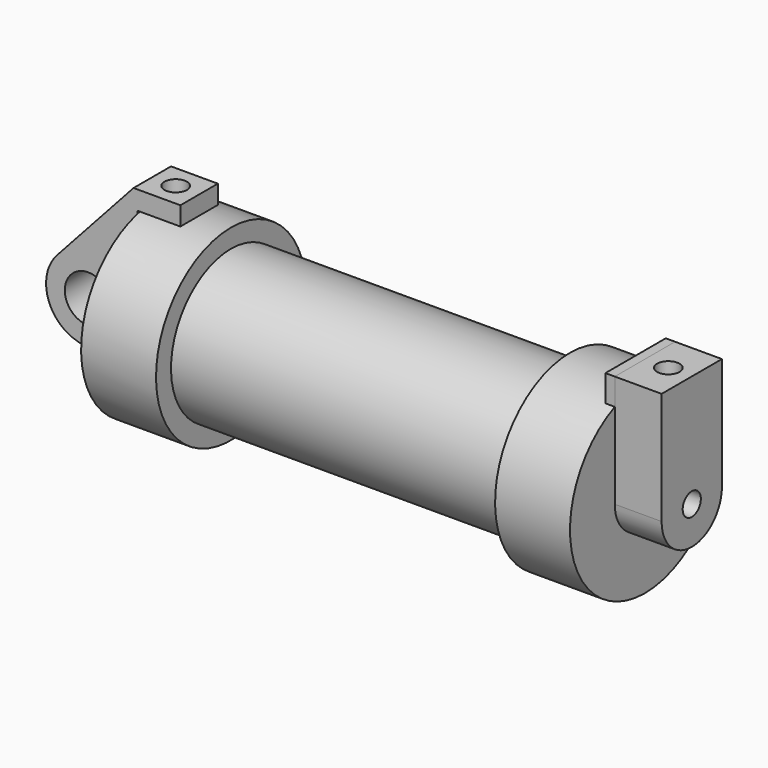
from build123d import *

# Parameters (mm, degrees)
F0_W      = 5.842
F0_H      = 12.7
F0_R      = 3.175
F2_DEPTH  = 3.175
F3_R      = 1.5393438835
F4_DEPTH  = 6.35
F5_DEPTH  = 1.27
F6_R      = 1.524
F9_DEPTH  = 17.78
F7_R      = 1.524
F10_DEPTH = 10.414


with BuildPart() as f1:
    # F0 (on Front) → F1 (revolve)
    with BuildSketch(Plane.XZ):
        with Locations((2.921, 6.35)):
            Rectangle(F0_W, F0_H)
        Polygon((5.842, 12.7), (5.842, 0), (66.294, 0), (66.294, 12.7), (56.134, 12.7), (56.134, 10.16), (10.16, 10.16), (10.16, 12.7), align=None)
    revolve(axis=Axis((33.147, 0, 0), (-1, 0, 0)))

    # F3 (on face) → F4 (join)
    with BuildSketch(Plane.YZ.offset(66.294)):
        with BuildLine():
            ThreePointArc((-5.1108804903, 0), (0, -5.1108804903), (5.1108804903, 0))
            ThreePointArc((5.1108804903, 0), (0, 5.1108804903), (-5.1108804903, 0))
        make_face()
        Circle(F3_R, mode=Mode.SUBTRACT)
        with BuildLine():
            ThreePointArc((-5.1108804903, 0), (0, 5.1108804903), (5.1108804903, 0))
            Line((5.1108804903, 0), (5.1108804903, 11.6262160918))
            ThreePointArc((5.1108804903, 11.6262160918), (0, 12.7), (-5.1108804903, 11.6262160918))
            Line((-5.1108804903, 11.6262160918), (-5.1108804903, 0))
        make_face()
        with BuildLine():
            ThreePointArc((-5.1108804903, 11.6262160918), (0, 12.7), (5.1108804903, 11.6262160918))
            Line((5.1108804903, 11.6262160918), (5.1108804903, 15.24))
            Line((5.1108804903, 15.24), (-5.1108804903, 15.24))
            Line((-5.1108804903, 15.24), (-5.1108804903, 11.6262160918))
        make_face()
    extrude(amount=F4_DEPTH)


with BuildPart() as f2:
    # F0 (on Front) → F2 (new body, symmetric)
    with BuildSketch(Plane.XZ):
        with BuildLine():
            ThreePointArc((-8.1826630726, -5.5069827884), (-3.1957909266, -4.5493385486), (-0.9398, 0))
            ThreePointArc((-0.9398, 0), (-4.5919612295, 5.3297205562), (-10.8806298187, 3.8475430269))
            ThreePointArc((-10.8806298187, 3.8475430269), (-12.1459778134, -1.5837270034), (-8.1826630726, -5.5069827884))
        make_face()
        with Locations((-6.6548, 0)):
            Circle(F0_R, mode=Mode.SUBTRACT)
        with BuildLine():
            Line((5.842, 0), (0, 0))
            Line((0, 0), (-0.9398, 0))
            ThreePointArc((-0.9398, 0), (-3.1957909266, -4.5493385486), (-8.1826630726, -5.5069827884))
            Line((-8.1826630726, -5.5069827884), (5.842, -9.398))
            Line((5.842, -9.398), (5.842, 0))
        make_face()
        with BuildLine():
            Line((-0.9398, 0), (0, 0))
            Line((0, 0), (0, 12.7))
            Line((0, 12.7), (5.842, 12.7))
            Line((5.842, 12.7), (5.842, 15.24))
            Line((5.842, 15.24), (-0.508, 15.24))
            Line((-0.508, 15.24), (-10.8806298187, 3.8475430269))
            ThreePointArc((-10.8806298187, 3.8475430269), (-4.5919612295, 5.3297205562), (-0.9398, 0))
        make_face()
    extrude(amount=F2_DEPTH, both=True)

    # F6 (on face) → F9 (cut)
    with BuildSketch(Plane.XY.offset(15.24)):
        with Locations((2.667, 0)):
            Circle(F6_R)
    extrude(amount=-F9_DEPTH, mode=Mode.SUBTRACT)


with BuildPart() as f5:
    # F5 (new): a face of the model
    f5_faces = [f1.part.faces().sort_by_distance(p)[0] for p in [
        (66.294, 0, 13.7766848253),
    ]]
    extrude(f5_faces, amount=F5_DEPTH)


with BuildPart() as f1_1:
    add(f1.part)

    # F7 (on face) → F10 (cut)
    with BuildSketch(Plane.XY.offset(15.24)):
        with Locations((69.469, 0)):
            Circle(F7_R)
    extrude(amount=-F10_DEPTH, mode=Mode.SUBTRACT)


solid = Compound([f2.part, f5.part, f1_1.part])
